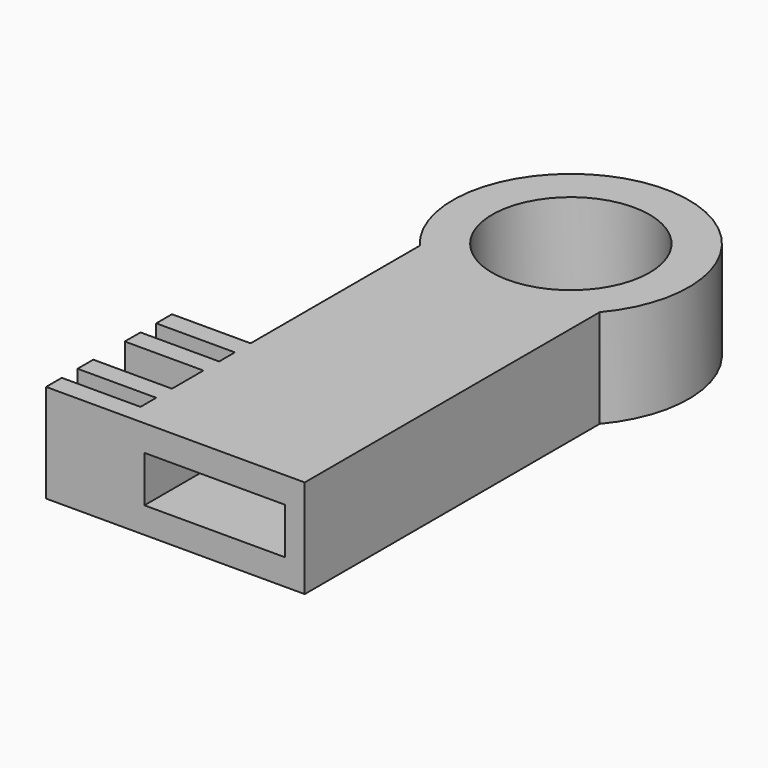
from build123d import *

# Parameters (mm, degrees)
F1_DEPTH = 10
F2_R     = 8
F3_DEPTH = 10.001
F4_W     = 14.3
F4_H     = 4.7
F5_DEPTH = 37
F6_W     = 2
F6_H     = 10
F7_DEPTH = 8


with BuildPart() as f1:
    # F0 (on Top) → F1 (new body)
    with BuildSketch(Plane.XY):
        with BuildLine():
            Line((9.15, 0), (9.15, 37.5))
            ThreePointArc((9.15, 37.5), (0, 57.263859), (-9.15, 37.5))
            Line((-9.15, 37.5), (-9.15, 0))
            Line((-9.15, 0), (9.15, 0))
        make_face()
    extrude(amount=F1_DEPTH)

    # F2 (on face) → F3 (cut, through all)
    with BuildSketch(Plane.XY.offset(10)):
        with Locations((0, 45.263859)):
            Circle(F2_R)
    extrude(amount=-F3_DEPTH, mode=Mode.SUBTRACT)

    # F4 (on face) → F5 (cut)
    with BuildSketch(Plane.XZ):
        with Locations((0, 5)):
            Rectangle(F4_W, F4_H)
    extrude(amount=-F5_DEPTH, mode=Mode.SUBTRACT)

    # F6 (on face) → F7 (join)
    with BuildSketch(Plane(origin=(-9.15, 0, 0), x_dir=(0, -1, 0), z_dir=(-1, 0, 0))):
        with Locations((-1, 5)):
            Rectangle(F6_W, F6_H)
        with Locations((-5, 5)):
            Rectangle(F6_W, F6_H)
        with Locations((-11, 5)):
            Rectangle(F6_W, F6_H)
        with Locations((-15, 5)):
            Rectangle(F6_W, F6_H)
    extrude(amount=F7_DEPTH)


solid = f1.part
